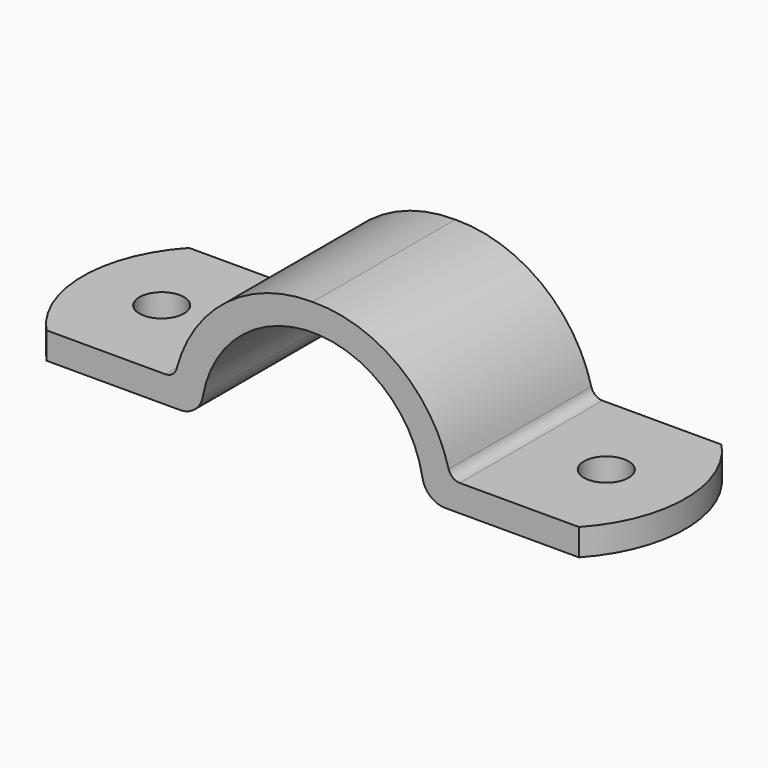
from build123d import *

# Parameters (mm, degrees)
F1_DEPTH = 10
F2_R     = 2.5
F3_DEPTH = 25
F5_DEPTH = 3
F7_DEPTH = 3


with BuildPart() as f1:
    # F0 (on Front) → F1 (new body, symmetric)
    with BuildSketch(Plane.XZ):
        with BuildLine():
            ThreePointArc((-12.3133069376, 2.1523178808), (0, 12.5), (12.3133069376, 2.1523178808))
            ThreePointArc((12.3133069376, 2.1523178808), (13.2017484895, 0.6095259974), (14.8744747806, 0))
            Line((14.8744747806, 0), (29.85, 0))
            Line((29.85, 0), (29.85, 3))
            Line((29.85, 3), (16.503, 3))
            ThreePointArc((16.503, 3), (15.7100109406, 3.2698697404), (15.2462584222, 3.9674333051))
            ThreePointArc((15.2462584222, 3.9674333051), (9.6127418909, 12.3640200256), (0, 15.5))
            ThreePointArc((0, 15.5), (-9.6127418909, 12.3640200256), (-15.2462584222, 3.9674333051))
            ThreePointArc((-15.2462584222, 3.9674333051), (-15.7100109406, 3.2698697404), (-16.503, 3))
            Line((-16.503, 3), (-29.85, 3))
            Line((-29.85, 3), (-29.85, 0))
            Line((-29.85, 0), (-14.8744747806, 0))
            ThreePointArc((-14.8744747806, 0), (-13.2017484895, 0.6095259974), (-12.3133069376, 2.1523178808))
        make_face()
    extrude(amount=F1_DEPTH, both=True)

    # F2 (on face) → F3 (cut)
    with BuildSketch(Plane.XY.offset(3)):
        with Locations((-24.92, 0)):
            Circle(F2_R)
        with Locations((24.92, 0)):
            Circle(F2_R)
    extrude(amount=-F3_DEPTH, mode=Mode.SUBTRACT)

    # F4 (on face) → F5 (join)
    with BuildSketch(Plane.XY.offset(3)):
        with BuildLine():
            Line((-29.85, -10), (-29.85, 10))
            ThreePointArc((-29.85, 10), (-33.7754930507, 0), (-29.85, -10))
        make_face()
    extrude(amount=-F5_DEPTH)

    # F6 (on face) → F7 (join)
    with BuildSketch(Plane.XY.offset(3)):
        with BuildLine():
            Line((29.85, 10), (29.85, -10))
            ThreePointArc((29.85, -10), (33.7754930507, 0), (29.85, 10))
        make_face()
    extrude(amount=-F7_DEPTH)


solid = f1.part
